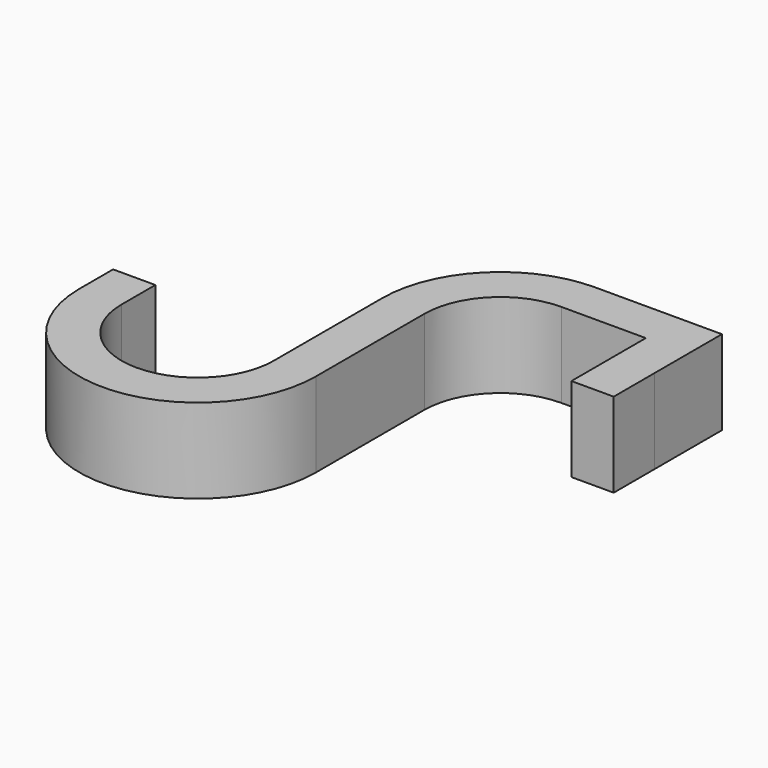
from build123d import *

# Parameters (mm, degrees)
F1_DEPTH = 10


with BuildPart() as f1:
    # F0 (on Top) → F1 (new body)
    with BuildSketch(Plane.XY):
        with BuildLine():
            ThreePointArc((23.933914, 19.089085), (14.034419, 14.98858), (9.933914, 5.089085))
            Line((9.933914, 5.089085), (9.933914, -10.910915))
            ThreePointArc((9.933914, -10.910915), (0.933914, -19.910915), (-8.066086, -10.910915))
            Line((-8.066086, -10.910915), (-8.066086, -5.910915))
            Line((-8.066086, -5.910915), (-13.066086, -5.910915))
            Line((-13.066086, -5.910915), (-13.066086, -10.910915))
            ThreePointArc((-13.066086, -10.910915), (0.933914, -24.910915), (14.933914, -10.910915))
            Line((14.933914, -10.910915), (14.933914, 5.089085))
            ThreePointArc((14.933914, 5.089085), (17.569952, 11.453046), (23.933914, 14.089085))
            Line((23.933914, 14.089085), (33.933914, 14.089085))
            Line((33.933914, 14.089085), (33.933914, 3.089085))
            Line((33.933914, 3.089085), (38.937714, 3.089085))
            Line((38.937714, 3.089085), (38.933914, 9.089085))
            Line((38.933914, 9.089085), (38.933914, 19.089085))
            Line((38.933914, 19.089085), (23.933914, 19.089085))
        make_face()
    extrude(amount=F1_DEPTH)


solid = f1.part
